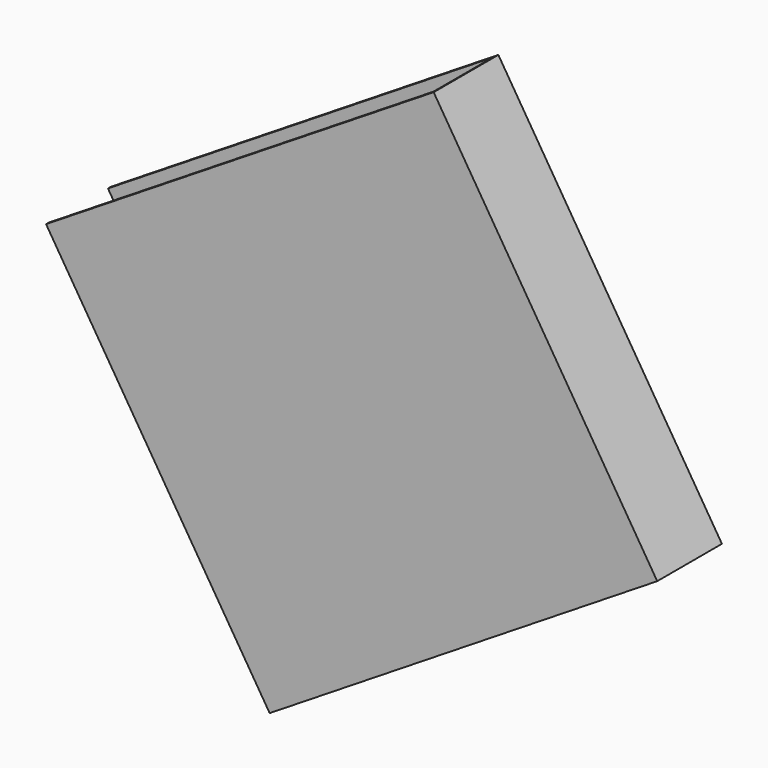
from build123d import *

# Parameters (mm, degrees)
BOX163_W               = 6
BOX163_H               = 6.45
BOX163_DEPTH           = 1.05
BOX162_W               = 6
BOX162_H               = 6.5
BOX162_DEPTH           = 1.15
CUT079_ROLL_ANGLE      = 90
CUT079_PITCH_ANGLE     = -58
CUT079_PLACEMENT_ANGLE = 180


with BuildPart() as small_cu_gnd_electrode068:
    # Box163 → Box163 (new body)
    with BuildSketch(Plane.XY.offset(0.05)):
        with Locations((3, 3.225)):
            Rectangle(BOX163_W, BOX163_H)
    extrude(amount=BOX163_DEPTH)


with BuildPart() as small_cu_electrode002_short_axis_gnd007:
    # Box162 → Box162 (new body)
    with BuildSketch(Plane.XY):
        with Locations((3, 3.25)):
            Rectangle(BOX162_W, BOX162_H)
    extrude(amount=BOX162_DEPTH)

    # Cut079: cut Small Cu GND Electrode068
    add(small_cu_gnd_electrode068.part, mode=Mode.SUBTRACT)


with BuildPart() as small_cu_electrode002_short_axis_gnd007_1:
    # Cut079 roll: moved
    add(small_cu_electrode002_short_axis_gnd007.part.rotate(Axis((0, 0, 0), (1, 0, 0)), CUT079_ROLL_ANGLE))


with BuildPart() as small_cu_electrode002_short_axis_gnd007_2:
    # Cut079 pitch: moved
    add(small_cu_electrode002_short_axis_gnd007_1.part.rotate(Axis((0, 0, 0), (0, 1, 0)), CUT079_PITCH_ANGLE))


with BuildPart() as small_cu_electrode002_short_axis_gnd007_3:
    # Cut079 placement: moved
    add(small_cu_electrode002_short_axis_gnd007_2.part.moved(Location((9.199953, 2.74, 40.788858))).rotate(Axis((9.199953, 2.74, 40.788858), (0, 0, 1)), CUT079_PLACEMENT_ANGLE))


solid = small_cu_electrode002_short_axis_gnd007_3.part
